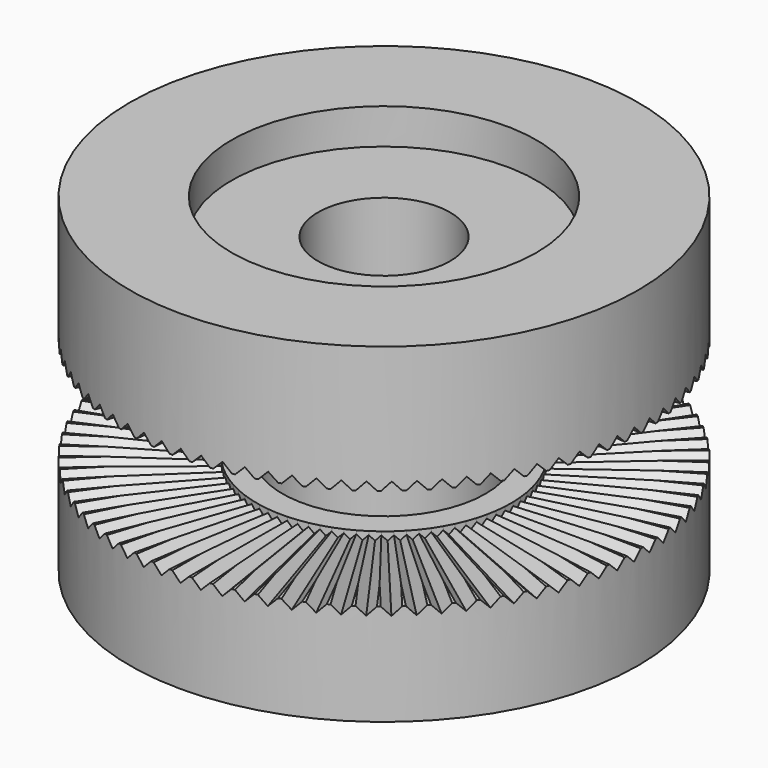
from build123d import *

# Parameters (mm, degrees)
SKETCH001_R        = 2.6
POCKET_DEPTH       = 13.001
POCKET001_DEPTH    = 5
POLARPATTERN_COUNT = 81


with BuildPart() as part:
    # Sketch → Revolution (revolve)
    with BuildSketch(Plane.XZ):
        Polygon((0, 0), (10, 0), (10, 4), (4, 4), (4, 8), (10, 8), (10, 13), (6, 13), (6, 11.60025), (0, 11.60025), align=None)
    revolve(axis=Axis((0, 0, 0), (0, 0, 1)))

    # Sketch001 (on DatumPlane) → Pocket (cut, through all)
    with BuildSketch(Plane(origin=(0, 0, 0), x_dir=(1, 0, 0), z_dir=(0, 0, -1))):
        Circle(SKETCH001_R)
    extrude(amount=-POCKET_DEPTH, mode=Mode.SUBTRACT)

    # Sketch002 → Pocket001 (cut)
    with BuildSketch(Plane.XZ.offset(10)):
        Polygon((2.329994, 5.994538), (0.005462, 8.329994), (-2.329994, 6.005462), (-0.005462, 3.670006), align=None)
    pocket001 = extrude(amount=-POCKET001_DEPTH, mode=Mode.SUBTRACT)

    # PolarPattern: Pocket001 ×81 about axis
    polarpattern_axis = Axis((0, 0, 0), (0, 0, 1))
    for i in range(1, POLARPATTERN_COUNT):
        add(pocket001.rotate(polarpattern_axis, i * 360 / POLARPATTERN_COUNT), mode=Mode.SUBTRACT)


solid = part.part
